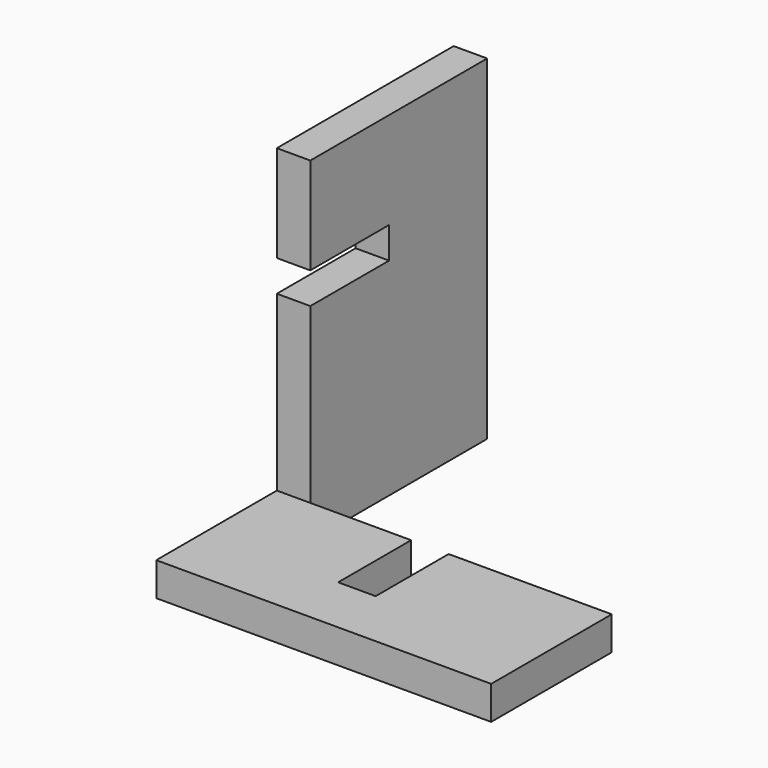
from build123d import *

# Parameters (mm, degrees)
SKETCH_W        = 100
SKETCH_H        = 45
PAD_DEPTH       = 10
SKETCH001_W     = 11.195305
SKETCH001_H     = 27.540902
POCKET_DEPTH    = 10.001
BOX_W           = 10
BOX_H           = 66
BOX_DEPTH       = 100
SKETCH002_W     = 36.478956
SKETCH002_H     = 9.376126
POCKET001_DEPTH = 10.001


with BuildPart() as pocket:
    # Sketch → Pad (new body)
    with BuildSketch(Plane.XY):
        with Locations((50, -22.5)):
            Rectangle(SKETCH_W, SKETCH_H)
    extrude(amount=PAD_DEPTH)

    # Sketch001 → Pocket (cut, through all)
    with BuildSketch(Plane.XY.offset(10)):
        with Locations((45.70259, -13.473978)):
            Rectangle(SKETCH001_W, SKETCH001_H)
    extrude(amount=-POCKET_DEPTH, mode=Mode.SUBTRACT)


with BuildPart() as pocket001:
    # Box → Box (new body)
    with BuildSketch(Plane.XY):
        with Locations((5, 33)):
            Rectangle(BOX_W, BOX_H)
    extrude(amount=BOX_DEPTH)

    # Sketch002 → Pocket001 (cut, through all)
    with BuildSketch(Plane.YZ.offset(10)):
        with Locations((11.155181, 66.430399)):
            Rectangle(SKETCH002_W, SKETCH002_H)
    extrude(amount=-POCKET001_DEPTH, mode=Mode.SUBTRACT)


solid = Compound([pocket.part, pocket001.part])
